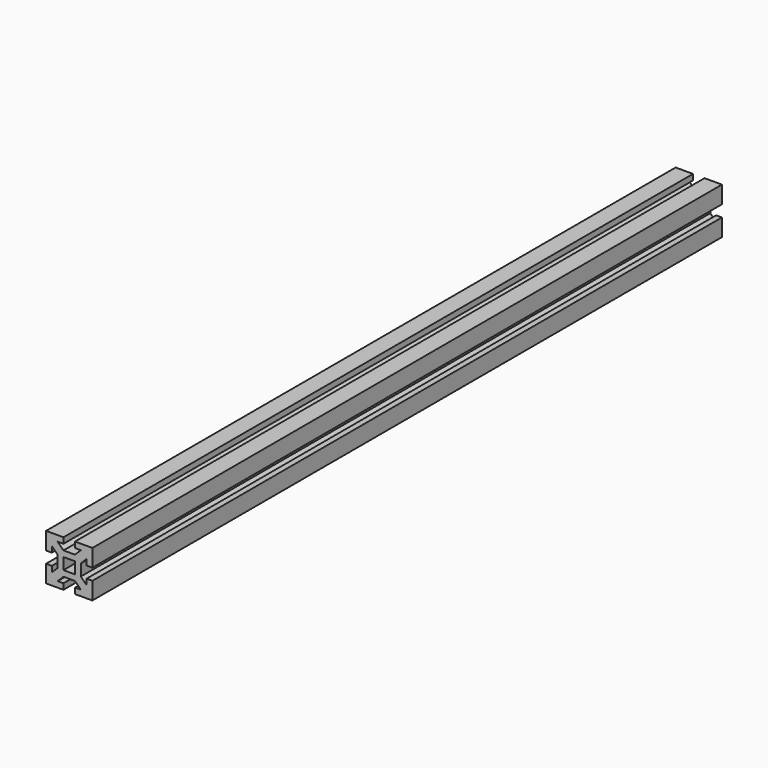
from build123d import *

# Parameters (mm, degrees)
F1_DEPTH = 680


with BuildPart() as f1:
    # F0 (on Front) → F1 (new body)
    with BuildSketch(Plane.XZ):
        Polygon((20, 5), (20, 20), (5, 20), (5, 15), (10, 15), (5, 10), (-5, 10), (-10, 15), (-5, 15), (-5, 20), (-20, 20), (-20, 5), (-15, 5), (-15, 10), (-10, 5), (-10, -5), (-15, -10), (-15, -5), (-20, -5), (-20, -20), (-5, -20), (-5, -15), (-10, -15), (-5, -10), (5, -10), (10, -15), (5, -15), (5, -20), (20, -20), (20, -5), (15, -5), (15, -10), (10, -5), (10, 5), (15, 10), (15, 5), align=None)
        Polygon((-5, 0), (-5, 5), (0, 5), (5, 5), (5, 0), (5, -5), (0, -5), (-5, -5), align=None, mode=Mode.SUBTRACT)
    extrude(amount=F1_DEPTH)


solid = f1.part
